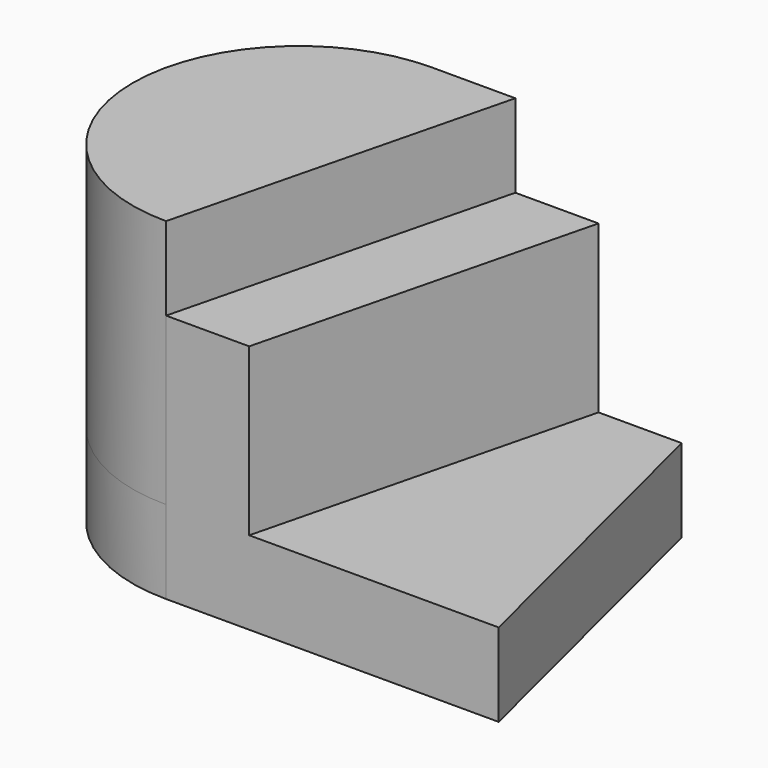
from build123d import *

# Parameters (mm, degrees)
PAD_DEPTH    = 10
PAD001_DEPTH = 30
PAD002_DEPTH = 20


with BuildPart() as part:
    # Sketch → Pad (new body)
    with BuildSketch(Plane.XY):
        with BuildLine():
            Line((-6.1e-05, 20), (29.999939, 20))
            Line((29.999939, 20), (40, -20))
            Line((40, -20), (0, -20))
            ThreePointArc((-6.1e-05, 20), (-20, -3e-05), (0, -20))
        make_face()
    extrude(amount=PAD_DEPTH)

    # Sketch001 (on Face6 of Pad) → Pad001 (join)
    with BuildSketch(Plane.XY.offset(10)):
        with BuildLine():
            ThreePointArc((0, 20), (-20, 0), (0, -20))
            Line((0, -20), (10, 20))
            Line((0, 20), (10, 20))
        make_face()
    extrude(amount=PAD001_DEPTH)

    # Sketch002 (on Face3 of Pad001) → Pad002 (join)
    with BuildSketch(Plane.XY.offset(10)):
        Polygon((10, 20), (0, -20), (10, -20), (20, 20), align=None)
    extrude(amount=PAD002_DEPTH)


solid = part.part
